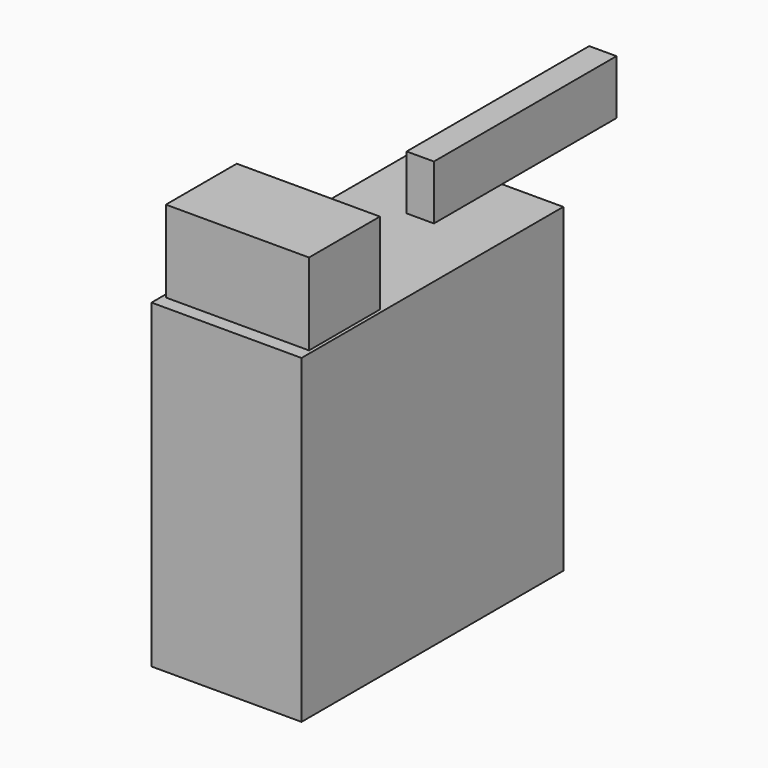
from build123d import *

# Parameters (mm, degrees)
F0_W     = 533.4
F0_H     = 330.2
F1_DEPTH = 1193.8
F0_W_2   = 101.6
F0_H_2   = 533.4
F0_H_3   = 316.828786
F2_DEPTH = 1397
F3_DEPTH = 1498.6
F4_W     = 533.4
F4_H     = 1193.8
F5_DEPTH = 330.201


with BuildPart() as f1:
    # F0 (on Top) → F1 (new body)
    with BuildSketch(Plane.XY):
        Polygon((0, 1219.2), (0, 0), (558.8, 0), (558.8, 1219.2), (330.2, 1219.2), (330.2, 902.371214), (228.6, 902.371214), (228.6, 1219.2), align=None)
        with Locations((279.4, 215.9)):
            Rectangle(F0_W, F0_H, mode=Mode.SUBTRACT)
    extrude(amount=F1_DEPTH)

    # F0 (on Top) → F2 (join)
    with BuildSketch(Plane.XY):
        with Locations((279.4, 1485.9)):
            Rectangle(F0_W_2, F0_H_2)
        with Locations((279.4, 1060.785607)):
            Rectangle(F0_W_2, F0_H_3)
    extrude(amount=F2_DEPTH)

    # F0 (on Top) → F3 (join)
    with BuildSketch(Plane.XY):
        with Locations((279.4, 215.9)):
            Rectangle(F0_W, F0_H)
    extrude(amount=F3_DEPTH)

    # F4 (on face) → F5 (cut, through all)
    with BuildSketch(Plane(origin=(228.6, 0, 0), x_dir=(0, -1, 0), z_dir=(-1, 0, 0))):
        with Locations((-1485.9, 596.9)):
            Rectangle(F4_W, F4_H)
    extrude(amount=-F5_DEPTH, mode=Mode.SUBTRACT)


solid = f1.part
